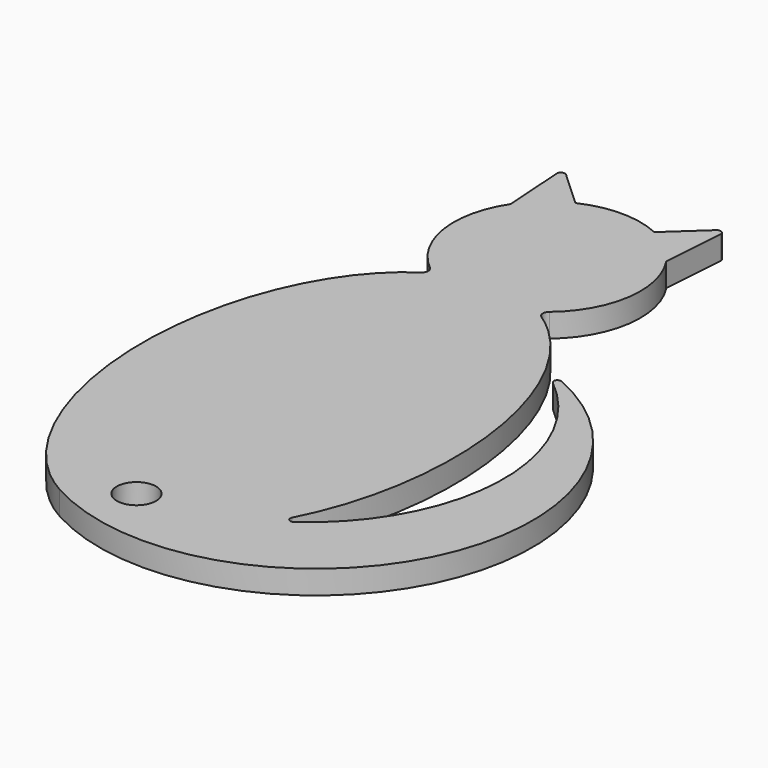
from build123d import *

# Parameters (mm, degrees)
F0_R     = 2.5
F1_DEPTH = 3


with BuildPart() as f1:
    # F0 (on Top) → F1 (new body)
    with BuildSketch(Plane.XY):
        with BuildLine():
            ThreePointArc((-7.5958592746, 30.447376996), (-7.2954421995, 29.7607968689), (-7.6664191036, 29.1096295889))
            add(Edge.make_bspline(
                [(-7.6664191036, 29.1096295889), (-55.464118768, -2.7410070687), (-6.5156015718, -29.8104974613)],
                knots=[0.3967115562, 0.3967115562, 0.3967115562, 2.8069981351, 2.8069981351, 2.8069981351], degree=2, weights=[1, 0.357559236, 1]))
            ThreePointArc((-6.5156015718, -29.8104974613), (31.5120821846, -17.9102618156), (17.8725918917, 19.5288172976))
            ThreePointArc((17.8725918917, 19.5288172976), (17.2999162533, 19.3489700798), (17.4003215692, 18.7571751989))
            ThreePointArc((17.4003215692, 18.7571751989), (26.4978981224, -1.3229207129), (16.0357766574, -20.7270482486))
            ThreePointArc((16.0357766574, -20.7270482486), (15.418361067, -20.6961037556), (15.3029208356, -20.0887874247))
            add(Edge.make_bspline(
                [(15.3029208356, -20.0887874247), (32.3088785024, 12.6887970766), (7.6664191036, 29.1096295889)],
                knots=[4.022421846, 4.022421846, 4.022421846, 5.886473751, 5.886473751, 5.886473751], degree=2, weights=[1, 0.5962087126, 1]))
            ThreePointArc((7.6664191036, 29.1096295889), (7.2954421995, 29.7607968689), (7.5958592746, 30.447376996))
            ThreePointArc((7.5958592746, 30.447376996), (11.762218697, 37.8714882822), (9.8957824129, 46.1776543547))
            Line((9.8957824129, 46.1776543547), (10.4372317457, 54.1401412002))
            ThreePointArc((10.4372317457, 54.1401412002), (10.142102083, 54.646218012), (9.5627349759, 54.5593329591))
            Line((9.5627349759, 54.5593329591), (5.0160304443, 50.3683832584))
            ThreePointArc((5.0160304443, 50.3683832584), (0, 51.478518162), (-5.0160304443, 50.3683832584))
            Line((-5.0160304443, 50.3683832584), (-9.5627349759, 54.5593329591))
            ThreePointArc((-9.5627349759, 54.5593329591), (-10.142102083, 54.646218012), (-10.4372317457, 54.1401412002))
            Line((-10.4372317457, 54.1401412002), (-9.8957824129, 46.1776543547))
            ThreePointArc((-9.8957824129, 46.1776543547), (-11.762218697, 37.8714882822), (-7.5958592746, 30.447376996))
        make_face()
        with Locations((0, -25.7397647947)):
            Circle(F0_R, mode=Mode.SUBTRACT)
    extrude(amount=F1_DEPTH)


solid = f1.part
